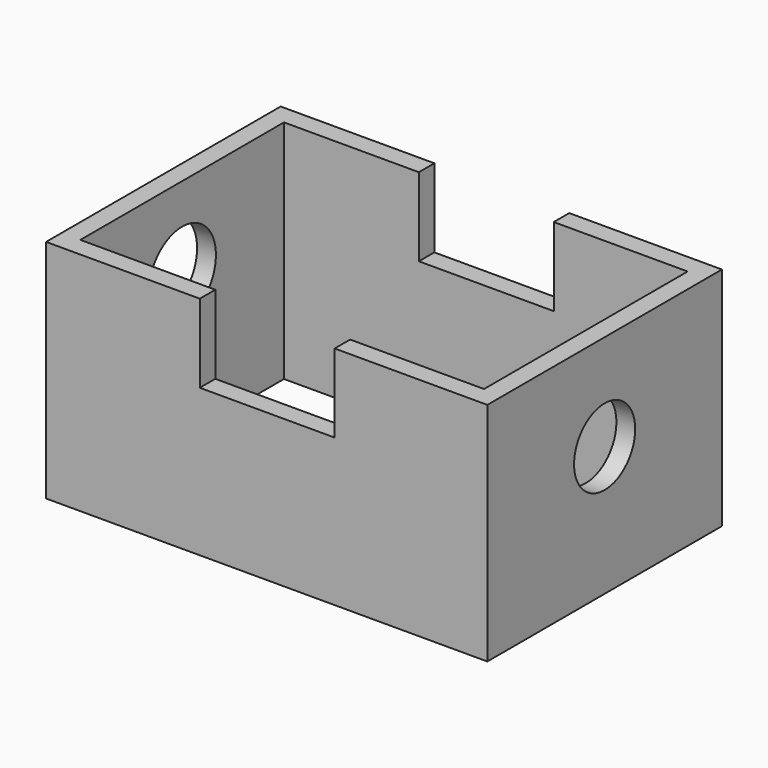
from build123d import *

# Parameters (mm, degrees)
F0_W      = 142.8750008345
F0_H      = 94.9427485466
F0_W_2    = 130.7075917721
F0_H_2    = 82.4066177011
F1_DEPTH  = 47.752
F3_DEPTH  = 25.4
F5_DEPTH  = 25.4
F7_R      = 12.3686155683
F8_DEPTH  = 25.4
F9_R      = 13.6525334008
F10_DEPTH = 25.4


with BuildPart() as f1:
    # F0 (on Top) → F1 (new body)
    with BuildSketch(Plane.XY):
        Rectangle(F0_W, F0_H)
        Rectangle(F0_W_2, F0_H_2, mode=Mode.SUBTRACT)
    extrude(amount=F1_DEPTH)

    # F2 (on face) → F3 (join)
    with BuildSketch(Plane.XY.offset(47.752)):
        Polygon((71.4375004172, -47.4713742733), (71.4375004172, 47.4713742733), (22.0016445965, 47.4713742733), (22.0016445965, 41.2033088505), (65.353795886, 41.2033088505), (65.353795886, -41.2033088505), (22.0016445965, -41.2033088505), (22.0016445965, -47.4713742733), align=None)
    extrude(amount=F3_DEPTH)

    # F4 (on face) → F5 (join)
    with BuildSketch(Plane.XY.offset(47.752)):
        Polygon((-21.6760756448, 47.4713742733), (-71.4375004172, 47.4713742733), (-71.4375004172, -47.4713742733), (-21.6760756448, -47.4713742733), (-21.6760756448, -41.2033088505), (-65.353795886, -41.2033088505), (-65.353795886, 41.2033088505), (-21.6760756448, 41.2033088505), align=None)
    extrude(amount=F5_DEPTH)

    # F7 (on face) → F8 (cut)
    with BuildSketch(Plane.YZ.offset(71.4375004172)):
        with Locations((0, 41.9407263398)):
            Circle(F7_R)
    extrude(amount=-F8_DEPTH, mode=Mode.SUBTRACT)

    # F9 (on face) → F10 (cut)
    with BuildSketch(Plane(origin=(-71.4375004172, 0, 0), x_dir=(0, -1, 0), z_dir=(-1, 0, 0))):
        with Locations((0, 46.5495996177)):
            Circle(F9_R)
    extrude(amount=-F10_DEPTH, mode=Mode.SUBTRACT)


solid = f1.part
